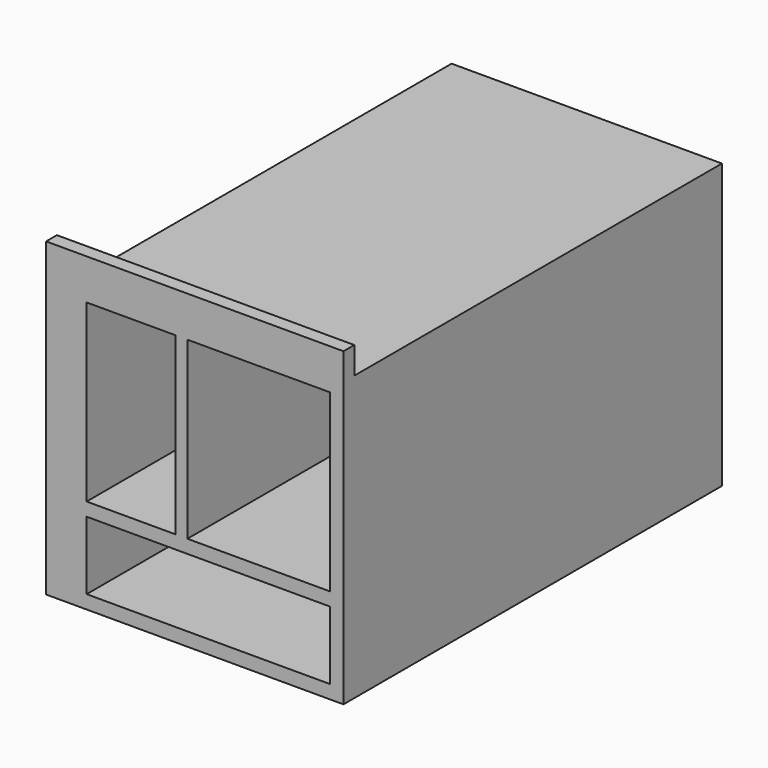
from build123d import *

# Parameters (mm, degrees)
F0_W     = 40
F0_H     = 42
F0_W_2   = 36
F0_H_2   = 10.092967
F0_W_3   = 13.144892
F0_H_3   = 25.934145
F0_W_4   = 21.089894
F1_DEPTH = 70
F4_DEPTH = 2


with BuildPart() as f1:
    # F0 (on Front) → F1 (new body)
    with BuildSketch(Plane.XZ):
        with Locations((90.064679, 37.446823)):
            Rectangle(F0_W, F0_H)
        with Locations((90.064679, 23.493306)):
            Rectangle(F0_W_2, F0_H_2, mode=Mode.SUBTRACT)
        with Locations((78.637125, 43.47975)):
            Rectangle(F0_W_3, F0_H_3, mode=Mode.SUBTRACT)
        with Locations((97.519732, 43.47975)):
            Rectangle(F0_W_4, F0_H_3, mode=Mode.SUBTRACT)
    extrude(amount=-F1_DEPTH)

    # F3 (on face) → F4 (join)
    with BuildSketch(Plane.XZ):
        Polygon((110.064679, 62.446823), (66.064679, 62.446823), (66.064679, 16.446823), (70.064679, 16.446823), (70.064679, 58.446823), (110.064679, 58.446823), align=None)
    extrude(amount=-F4_DEPTH)


solid = f1.part
